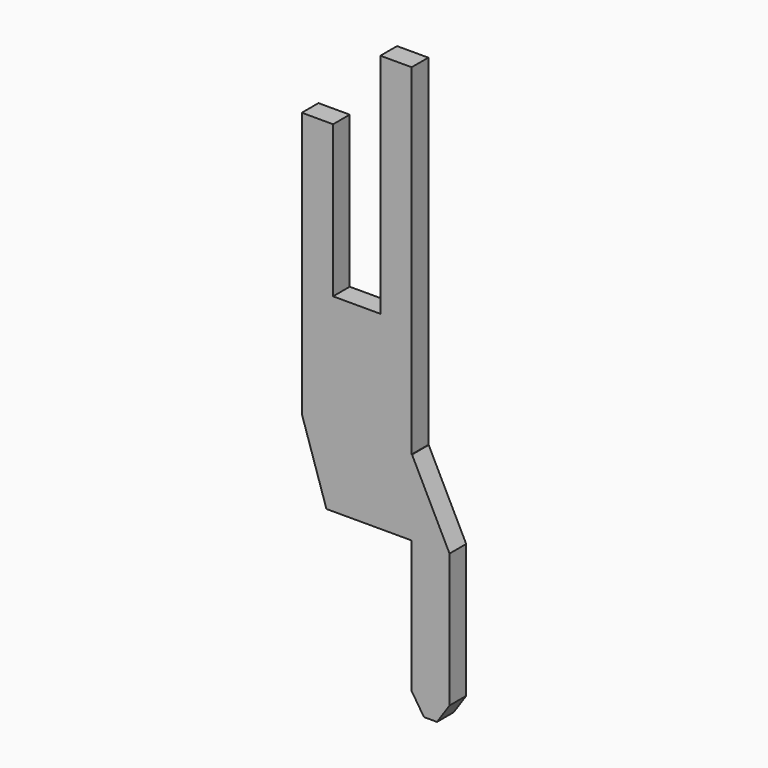
from build123d import *

# Parameters (mm, degrees)
BOX066_W                = 2.9
BOX066_H                = 0.55
BOX066_DEPTH            = 15
BOX067_W                = 1.25
BOX067_H                = 0.55
BOX067_DEPTH            = 6
BOX068_W                = 1.1
BOX068_H                = 0.6
BOX068_DEPTH            = 2
BOX070_W                = 1
BOX070_H                = 0.55
BOX070_DEPTH            = 6
BOX069_W                = 3
BOX069_H                = 0.55
BOX069_DEPTH            = 4
CHAMFER030_SIZE2        = 0.65
CHAMFER030_SIZE         = 2
CHAMFER031_ANGLE        = 33
CHAMFER031_SIZE         = 0.5
CHAMFER033_ANGLE        = 56
CHAMFER033_SIZE         = 0.33
CHAMFER032_ANGLE        = 26.565
CHAMFER032_SIZE         = 1.98
BODY028_PLACEMENT_ANGLE = 180


with BuildPart() as part:
    # Box066 → Box066 (join)
    with BuildSketch(Plane(origin=(-4.95, -0.275, 0), x_dir=(1, 0, 0), z_dir=(0, 0, 1))):
        with Locations((1.45, 0.275)):
            Rectangle(BOX066_W, BOX066_H)
    extrude(amount=BOX066_DEPTH)

    # Box067 → Box067 (cut)
    with BuildSketch(Plane(origin=(-4.125, -0.275, 9), x_dir=(1, 0, 0), z_dir=(0, 0, 1))):
        with Locations((0.625, 0.275)):
            Rectangle(BOX067_W, BOX067_H)
    extrude(amount=BOX067_DEPTH, mode=Mode.SUBTRACT)

    # Box068 → Box068 (cut)
    with BuildSketch(Plane(origin=(-3, -0.3, 13), x_dir=(1, 0, 0), z_dir=(0, 0, 1))):
        with Locations((0.55, 0.3)):
            Rectangle(BOX068_W, BOX068_H)
    extrude(amount=BOX068_DEPTH, mode=Mode.SUBTRACT)

    # Box070 → Box070 (join)
    with BuildSketch(Plane(origin=(-5.95, -0.275, 0), x_dir=(1, 0, 0), z_dir=(0, 0, 1))):
        with Locations((0.5, 0.275)):
            Rectangle(BOX070_W, BOX070_H)
    extrude(amount=BOX070_DEPTH)

    # Box069 → Box069 (cut)
    with BuildSketch(Plane(origin=(-4.95, 0.275, 4), x_dir=(1, 0, 0), z_dir=(0, 0, -1))):
        with Locations((1.5, 0.275)):
            Rectangle(BOX069_W, BOX069_H)
    extrude(amount=BOX069_DEPTH, mode=Mode.SUBTRACT)

    # Chamfer030
    chamfer030_edges = [part.edges().sort_by_distance(p)[0] for p in [
        (-2.05, 0, 4),
    ]]
    chamfer030_side = part.faces().sort_by_distance((-2.05, 0, 8.5))[0]
    chamfer(chamfer030_edges, length=CHAMFER030_SIZE, length2=CHAMFER030_SIZE2, reference=chamfer030_side)

    # Chamfer031
    chamfer031_edges = [part.edges().sort_by_distance(p)[0] for p in [
        (-4.95, 0, 0),
    ]]
    chamfer031_side = part.faces().sort_by_distance((-4.95, 0, 2))[0]
    chamfer(chamfer031_edges, length=CHAMFER031_SIZE, angle=CHAMFER031_ANGLE, reference=chamfer031_side)

    # Chamfer033
    chamfer033_edges = [part.edges().sort_by_distance(p)[0] for p in [
        (-5.95, 0, 0),
    ]]
    chamfer033_side = part.faces().sort_by_distance((-5.612352, 0, 0))[0]
    chamfer(chamfer033_edges, length=CHAMFER033_SIZE, angle=CHAMFER033_ANGLE, reference=chamfer033_side)

    # Chamfer032
    chamfer032_edges = [part.edges().sort_by_distance(p)[0] for p in [
        (-5.95, 0, 6),
    ]]
    chamfer032_side = part.faces().sort_by_distance((-5.95, 0, 3.244623))[0]
    chamfer(chamfer032_edges, length=CHAMFER032_SIZE, angle=CHAMFER032_ANGLE, reference=chamfer032_side)


with BuildPart() as part_1:
    # Body028 placement: moved
    add(part.part.moved(Location((0, 0, -4))).rotate(Axis((0, 0, -4), (0, 0, 1)), BODY028_PLACEMENT_ANGLE))


solid = part_1.part
